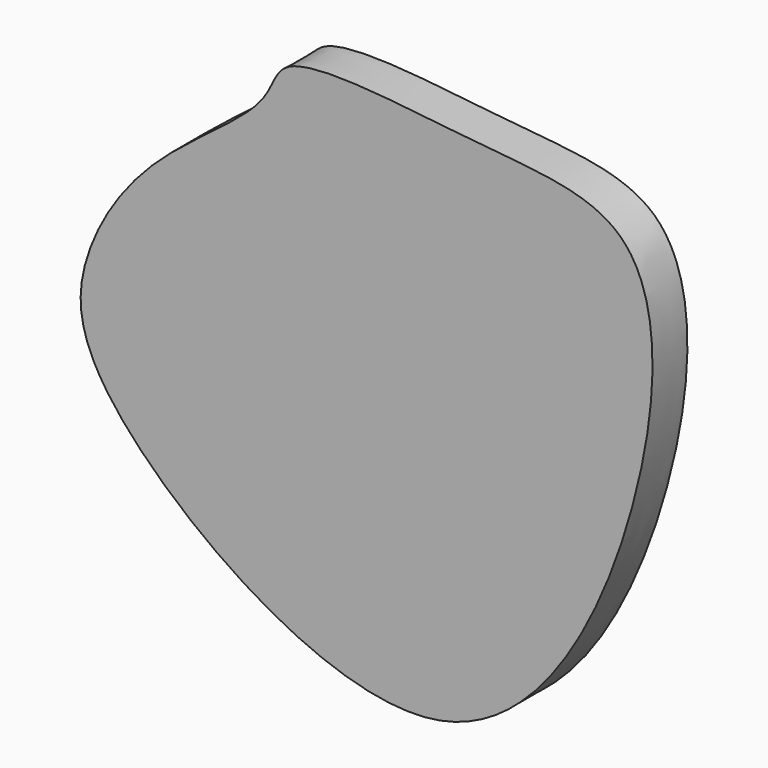
from build123d import *

# Parameters (mm, degrees)
F1_DEPTH = 2


with BuildPart() as f1:
    # F0 (on Front) → F1 (new body)
    with BuildSketch(Plane.XZ):
        with BuildLine():
            add(Edge.make_bspline(
                [(-54.9115240574, -44.9491739273), (-52.3182746385, -48.6476061027), (-38.3161883586, -59.0041150302), (-29.6349564801, -41.5758119276), (-29.5758336653, -29.7504015264), (-37.8033597654, -29.5141080564), (-47.1765073435, -28.0756672664), (-47.3821645465, -31.1623913564), (-53.030107952, -34.4732771581), (-56.3851699019, -39.6830069387), (-56.3560030609, -42.8890914747), (-54.9115240574, -44.9491739273)],
                knots=[0, 0, 0, 0, 0.1623787512, 0.3156394195, 0.439668698, 0.5445784424, 0.6593644013, 0.7154642211, 0.8134602632, 0.9095525888, 1, 1, 1, 1], degree=3))
        make_face()
    extrude(amount=F1_DEPTH)


solid = f1.part
